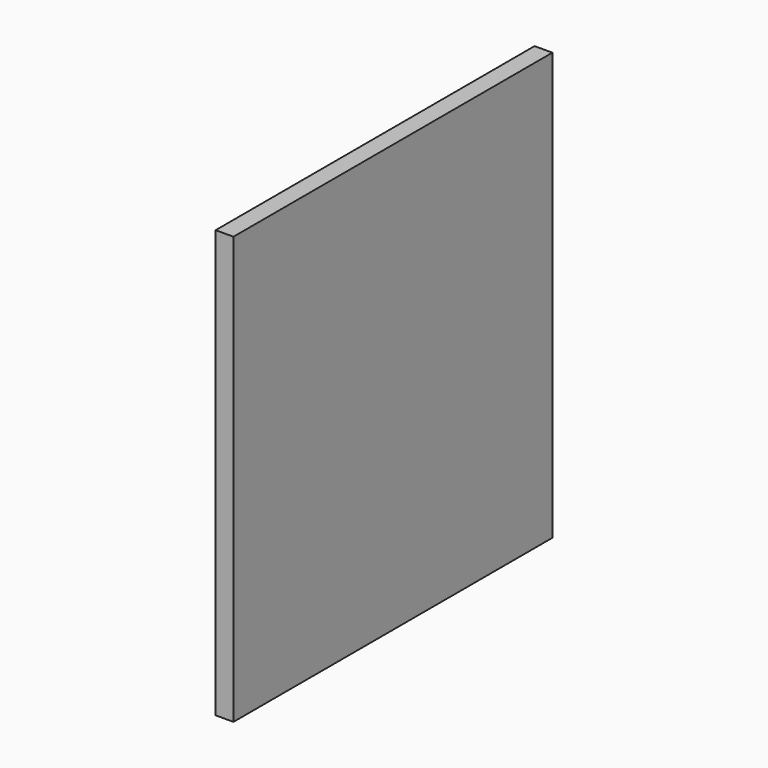
from build123d import *

# Parameters (mm, degrees)
F0_W     = 355.6
F0_H     = 381
F1_DEPTH = 15.875
F3_D     = 6.35
F3_DEPTH = 9.525
F3_TIP   = 1.9077324654


with BuildPart() as f1:
    # F0 (on Right) → F1 (new body)
    with BuildSketch(Plane.YZ):
        with Locations((177.8, 190.5)):
            Rectangle(F0_W, F0_H)
    extrude(amount=F1_DEPTH)

    # F3
    with Locations(Plane(origin=(0, 0, 0), x_dir=(1, 0, 0), z_dir=(0, 0, -1))):
        with Locations((7.9375, -76.2)):
            Hole(F3_D / 2, depth=F3_DEPTH)
            with Locations((0, 0, -(F3_DEPTH + F3_TIP / 2))):  # 118° drill point
                Cone(0, F3_D / 2, F3_TIP, mode=Mode.SUBTRACT)


solid = f1.part
